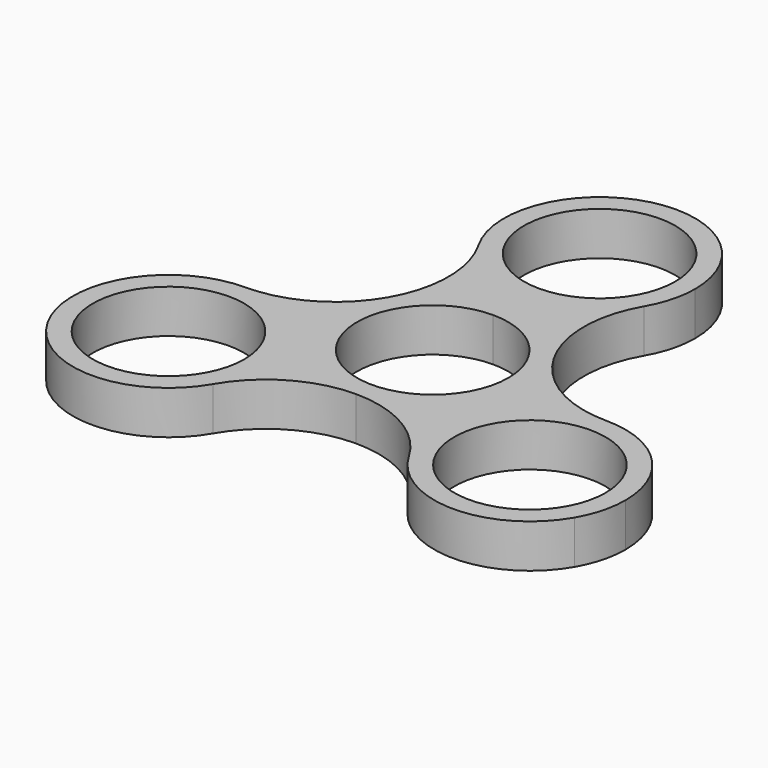
from build123d import *

# Parameters (mm, degrees)
F0_R     = 11.049
F1_DEPTH = 6.35


with BuildPart() as f1:
    # F0 (on Top) → F1 (new body)
    with BuildSketch(Plane.XY):
        with BuildLine():
            ThreePointArc((-12.4264543073, -15.24), (-16.5181725742, -5.3617182668), (-26.3964543073, -1.27))
            ThreePointArc((-26.3964543073, -1.27), (-38.4948290673, -8.2549997732), (-38.4948294602, -22.2249995463))
            ThreePointArc((-38.4948294602, -22.2249995463), (-26.3964545693, -29.21), (-14.2980794165, -22.225))
            ThreePointArc((-14.2980794165, -22.225), (-12.9024705141, -18.8557020601), (-12.4264543073, -15.24))
        make_face()
        with Locations((-26.3964543073, -15.24)):
            Circle(F0_R, mode=Mode.SUBTRACT)
        with BuildLine():
            ThreePointArc((-3.53e-08, -13.97), (-12.0983749061, -6.9849999736), (-12.098374878, 6.9850000222))
            ThreePointArc((-12.098374878, 6.9850000222), (-18.1414542962, 0.9419205899), (-26.3964543073, -1.27))
            ThreePointArc((-26.3964543073, -1.27), (-16.5181725742, -5.3617182668), (-12.4264543073, -15.24))
            ThreePointArc((-12.4264543073, -15.24), (-12.9024705141, -18.8557020601), (-14.2980794165, -22.225))
            ThreePointArc((-14.2980794165, -22.225), (-8.2550000153, -16.1819205923), (-3.53e-08, -13.97))
        make_face()
        with BuildLine():
            ThreePointArc((26.3964543073, -1.27), (18.1414543021, 0.9419205865), (12.0983748849, 6.9850000104))
            ThreePointArc((12.0983748849, 6.9850000104), (13.4939837917, 3.6157020659), (13.97, 0))
            ThreePointArc((13.97, 0), (9.8782817207, -9.8782817456), (-3.53e-08, -13.97))
            ThreePointArc((-3.53e-08, -13.97), (8.2549999847, -16.1819205747), (14.2980794165, -22.225))
            ThreePointArc((14.2980794165, -22.225), (14.2980794165, -8.255), (26.3964543073, -1.27))
        make_face()
        with BuildLine():
            ThreePointArc((0, 13.97), (6.9849999948, 12.0983748939), (12.0983748849, 6.9850000104))
            ThreePointArc((12.0983748849, 6.9850000104), (9.8864543073, 15.240000006), (12.0983748909, 23.495))
            ThreePointArc((12.0983748909, 23.495), (6.985, 18.3816251091), (0, 16.51))
            Line((0, 16.51), (0, 13.97))
        make_face()
        with BuildLine():
            ThreePointArc((-12.0983748909, 23.495), (-9.8864543073, 15.2400000128), (-12.098374878, 6.9850000222))
            ThreePointArc((-12.098374878, 6.9850000222), (-6.9849999889, 12.0983748973), (0, 13.97))
            Line((0, 13.97), (0, 16.51))
            ThreePointArc((0, 16.51), (-6.985, 18.3816251091), (-12.0983748909, 23.495))
        make_face()
        with BuildLine():
            Line((-12.0983748909, 6.985), (-9.5687146864, 5.5245))
            ThreePointArc((-9.5687146864, 5.5245), (-5.5245, 9.5687146864), (0, 11.049))
            Line((0, 11.049), (0, 13.97))
            ThreePointArc((0, 13.97), (-6.9849999889, 12.0983748973), (-12.098374878, 6.9850000222))
        make_face()
        with BuildLine():
            ThreePointArc((0, 11.049), (5.5245, 9.5687146864), (9.5687146864, 5.5245))
            Line((9.5687146864, 5.5245), (12.0983748909, 6.985))
            ThreePointArc((12.0983748849, 6.9850000104), (6.9849999948, 12.0983748939), (0, 13.97))
            Line((0, 13.97), (0, 11.049))
        make_face()
        with BuildLine():
            ThreePointArc((9.5687146864, 5.5245), (10.6725144547, 2.8596916293), (11.049, 0))
            ThreePointArc((11.049, 0), (-2.8596916293, -10.6725144547), (-9.5687146864, 5.5245))
            Line((-9.5687146864, 5.5245), (-12.0983748909, 6.985))
            ThreePointArc((-12.098374878, 6.9850000222), (-12.0983749061, -6.9849999736), (-3.53e-08, -13.97))
            ThreePointArc((-3.53e-08, -13.97), (9.8782817207, -9.8782817456), (13.97, 0))
            ThreePointArc((13.97, 0), (13.4939837917, 3.6157020659), (12.0983748849, 6.9850000104))
            Line((12.0983748909, 6.985), (9.5687146864, 5.5245))
        make_face()
        with BuildLine():
            ThreePointArc((0, 16.51), (6.985, 18.3816251091), (12.0983748909, 23.495))
            ThreePointArc((12.0983748909, 23.495), (13.4939837933, 26.8642979399), (13.97, 30.48))
            ThreePointArc((13.97, 30.48), (9.8782817686, 40.3582816978), (1.001e-07, 44.45))
            ThreePointArc((1.001e-07, 44.45), (-12.0983748658, 37.4650000434), (-12.0983748909, 23.495))
            ThreePointArc((-12.0983748909, 23.495), (-6.985, 18.3816251091), (0, 16.51))
        make_face()
        with BuildLine():
            ThreePointArc((11.049, 30.48), (7.8128228253, 22.6671771747), (0, 19.431))
            ThreePointArc((0, 19.431), (-7.8128228253, 38.2928228253), (11.049, 30.48))
        make_face(mode=Mode.SUBTRACT)
        with BuildLine():
            ThreePointArc((40.3664543073, -15.24), (36.2747360405, -5.3617182668), (26.3964543073, -1.27))
            ThreePointArc((26.3964543073, -1.27), (14.2980794165, -8.255), (14.2980794165, -22.225))
            ThreePointArc((14.2980794165, -22.225), (26.396454199, -29.21), (38.4948290898, -22.2250001877))
            ThreePointArc((38.4948290898, -22.2250001877), (39.8904380726, -18.8557021648), (40.3664543073, -15.24))
        make_face()
        with Locations((26.3964543073, -15.24)):
            Circle(F0_R, mode=Mode.SUBTRACT)
    extrude(amount=F1_DEPTH)


solid = f1.part
